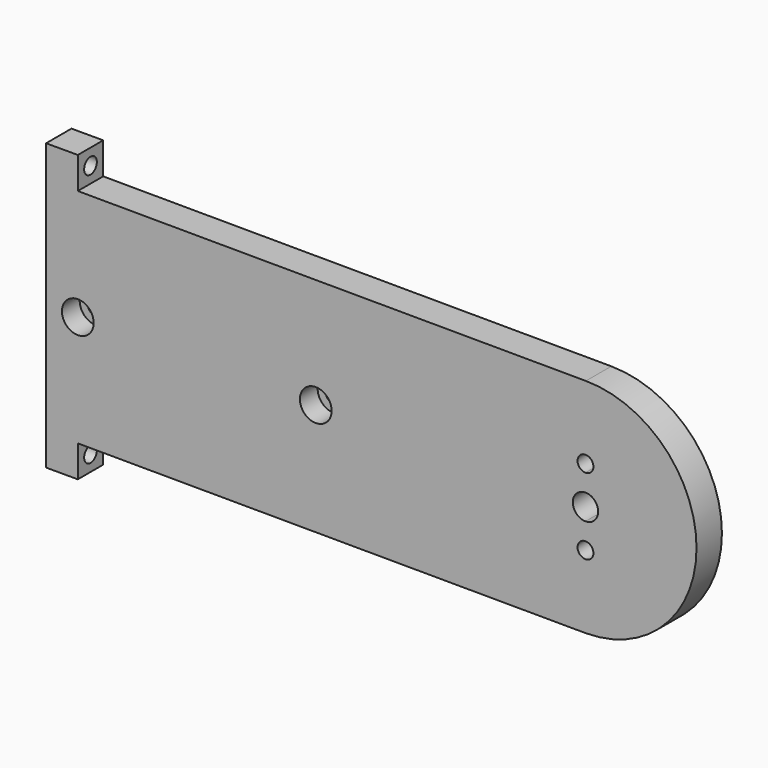
from build123d import *

# Parameters (mm, degrees)
F0_R     = 5
F1_DEPTH = 10
F2_R     = 2.5
F3_DEPTH = 25
F4_R     = 2.5
F5_DEPTH = 25
F0_R_2   = 2.5
F6_DEPTH = 3


with BuildPart() as f1:
    # F0 (on Front) → F1 (new body)
    with BuildSketch(Plane.XZ):
        with BuildLine():
            Line((-75, 45), (-85, 45))
            Line((-85, 45), (-85, -45))
            Line((-85, -45), (-75, -45))
            Line((-75, -45), (-75, -35))
            Line((-75, -35), (85.1359899874, -35.6216732085))
            ThreePointArc((85.1359899874, -35.6216732085), (120, -0.6219373992), (85.1359899874, 34.3777984101))
            Line((85.1359899874, 34.3777984101), (-75, 35))
            Line((-75, 35), (-75, 45))
        make_face()
        with BuildLine():
            ThreePointArc((87.5, -12.6219373992), (83.232233047, -14.3897043522), (85, -10.1219373992))
            ThreePointArc((85, -10.1219373992), (86.767766953, -10.8541704462), (87.5, -12.6219373992))
        make_face(mode=Mode.SUBTRACT)
        with BuildLine():
            ThreePointArc((85, 3.3780626008), (87.8284271247, 2.2064897255), (89, -0.6219373992))
            ThreePointArc((89, -0.6219373992), (87.8284271247, -3.450364524), (85, -4.6219373992))
            ThreePointArc((85, -4.6219373992), (81, -0.6219373992), (85, 3.3780626008))
        make_face(mode=Mode.SUBTRACT)
        with Locations((-75, 0)):
            Circle(F0_R, mode=Mode.SUBTRACT)
        Circle(F0_R, mode=Mode.SUBTRACT)
        with BuildLine():
            ThreePointArc((87.5, 11.3780626008), (86.767766953, 9.6102956478), (85, 8.8780626008))
            ThreePointArc((85, 8.8780626008), (83.232233047, 13.1458295538), (87.5, 11.3780626008))
        make_face(mode=Mode.SUBTRACT)
    extrude(amount=F1_DEPTH)

    # F2 (on face) → F3 (cut)
    with BuildSketch(Plane.YZ.offset(-75)):
        with Locations((-5, 40)):
            Circle(F2_R)
    extrude(amount=-F3_DEPTH, mode=Mode.SUBTRACT)

    # F4 (on face) → F5 (cut)
    with BuildSketch(Plane.YZ.offset(-75)):
        with Locations((-5, -40)):
            Circle(F4_R)
    extrude(amount=-F5_DEPTH, mode=Mode.SUBTRACT)

    # F0 (on Front) → F6 (join)
    with BuildSketch(Plane.XZ):
        with Locations((-75, 0)):
            Circle(F0_R)
        with Locations((-75, 0)):
            Circle(F0_R_2, mode=Mode.SUBTRACT)
        Circle(F0_R)
        Circle(F0_R_2, mode=Mode.SUBTRACT)
    extrude(amount=F6_DEPTH)


solid = f1.part
